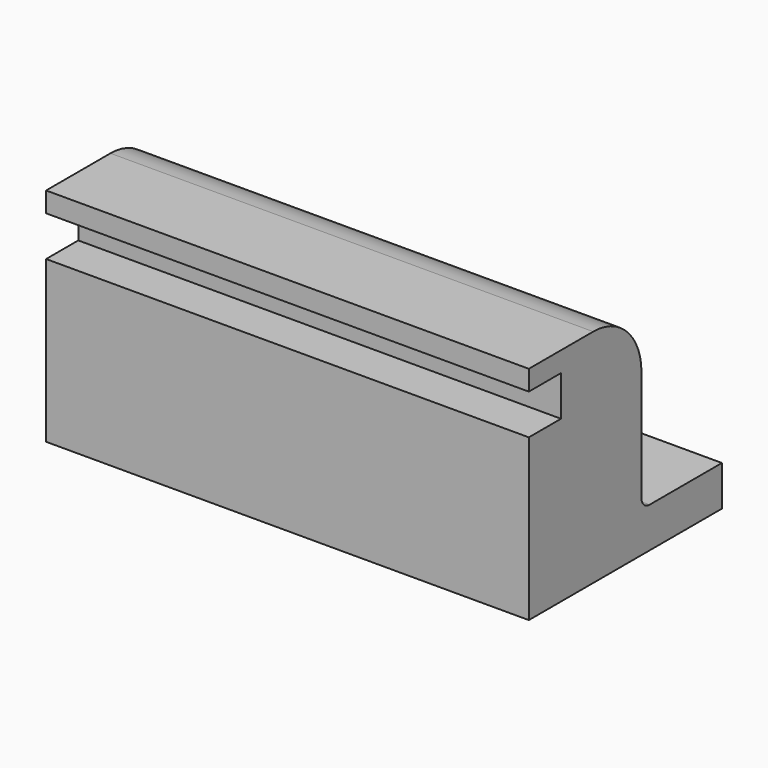
from build123d import *

# Parameters (mm, degrees)
PAD001_DEPTH = 12
SKETCH_W     = 24
SKETCH_H     = 12
SKETCH_R     = 1.3
PAD_DEPTH    = 2
FILLET_R     = 3
FILLET001_R  = 0.5


with BuildPart() as pad001:
    # Sketch001 → Pad001 (new body, symmetric)
    with BuildSketch(Plane.YZ):
        Polygon((0, 0), (0, 6), (2, 6), (2, 8), (0, 8), (0, 9), (7, 9), (7, 0), align=None)
    extrude(amount=PAD001_DEPTH, both=True)


with BuildPart() as fillet001:
    # Sketch → Pad (new body)
    with BuildSketch(Plane.XY):
        with Locations((0, 6)):
            Rectangle(SKETCH_W, SKETCH_H)
        with Locations((-8, 9.5)):
            Circle(SKETCH_R, mode=Mode.SUBTRACT)
        with Locations((0, 9.5)):
            Circle(SKETCH_R, mode=Mode.SUBTRACT)
        with Locations((8, 9.5)):
            Circle(SKETCH_R, mode=Mode.SUBTRACT)
    extrude(amount=-PAD_DEPTH)

    # Fusion: union Pad001
    add(pad001.part)

    # Fillet
    fillet_edges = [fillet001.edges().sort_by_distance(p)[0] for p in [
        (0, 7, 9),
    ]]
    fillet(fillet_edges, radius=FILLET_R)

    # Fillet001
    fillet001_edges = [fillet001.edges().sort_by_distance(p)[0] for p in [
        (0, 7, 0),
    ]]
    fillet(fillet001_edges, radius=FILLET001_R)


solid = fillet001.part
